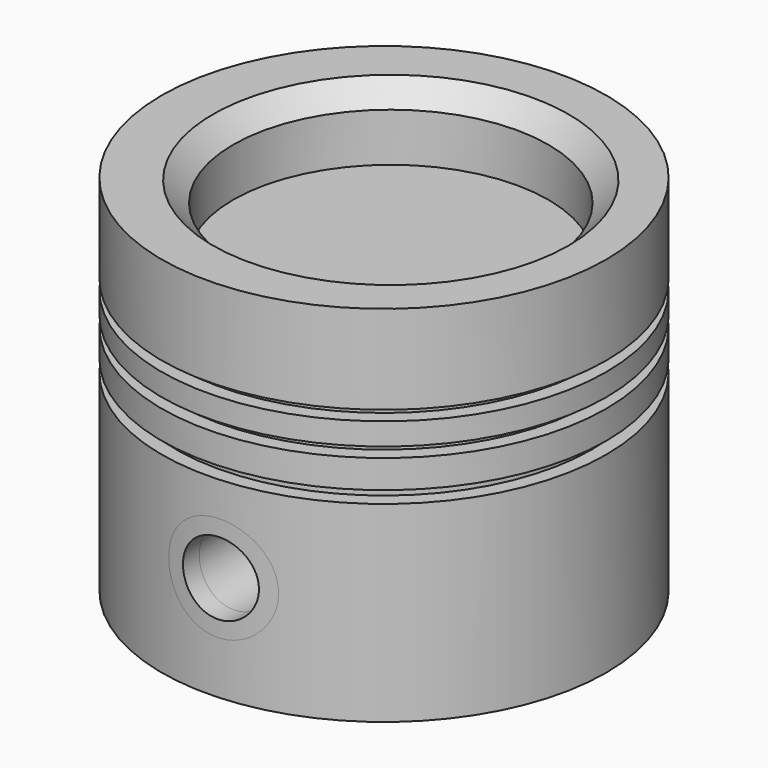
from build123d import *

# Parameters (mm, degrees)
F0_R           = 55
F1_DEPTH       = 47.5
F2_R           = 51.5
F3_DEPTH       = 3
F4_R           = 55
F5_DEPTH       = 7
F6_R           = 51.5
F7_DEPTH       = 2.5
F8_R           = 55
F9_DEPTH       = 5.5
F10_R          = 51.5
F11_DEPTH      = 2.5
F12_R          = 55
F12_R_2        = 39
F13_DEPTH      = 22
F14_R          = 50
F15_DEPTH      = 40
F16_R          = 43.5007627275
F17_DEPTH      = 5
F18_SIZE       = 5
F19_R          = 13
F19_R_2        = 9
F20_DEPTH      = 62
F20_DEPTH_BACK = 70.1
F21_R          = 9
F22_DEPTH      = 75.8
F22_DEPTH_BACK = 99.3
F24_DEPTH      = 40
F25_R          = 82.1696032424
F25_R_2        = 55
F26_DEPTH      = 32.2


with BuildPart() as f1:
    # F0 (on Top) → F1 (new body)
    with BuildSketch(Plane.XY):
        Circle(F0_R)
    extrude(amount=F1_DEPTH)

    # F2 (on face) → F3 (join)
    with BuildSketch(Plane.XY.offset(47.5)):
        Circle(F2_R)
    extrude(amount=F3_DEPTH)

    # F4 (on face) → F5 (join)
    with BuildSketch(Plane.XY.offset(50.5)):
        Circle(F4_R)
    extrude(amount=F5_DEPTH)

    # F6 (on face) → F7 (join)
    with BuildSketch(Plane.XY.offset(57.5)):
        Circle(F6_R)
    extrude(amount=F7_DEPTH)

    # F8 (on face) → F9 (join)
    with BuildSketch(Plane.XY.offset(60)):
        Circle(F8_R)
    extrude(amount=F9_DEPTH)

    # F10 (on face) → F11 (join)
    with BuildSketch(Plane.XY.offset(65.5)):
        Circle(F10_R)
    extrude(amount=F11_DEPTH)

    # F12 (on face) → F13 (join)
    with BuildSketch(Plane.XY.offset(68)):
        Circle(F12_R)
        with Locations((1.679461333, 0)):
            Circle(F12_R_2, mode=Mode.SUBTRACT)
    extrude(amount=F13_DEPTH)

    # F14 (on face) → F15 (cut)
    with BuildSketch(Plane(origin=(0, 0, 0), x_dir=(1, 0, 0), z_dir=(0, 0, -1))):
        Circle(F14_R)
    extrude(amount=-F15_DEPTH, mode=Mode.SUBTRACT)

    # F16 (on face) → F17 (join)
    with BuildSketch(Plane.XY.offset(68)):
        Circle(F16_R)
    extrude(amount=F17_DEPTH)

    # F18
    f18_edges = [f1.edges().sort_by_distance(p)[0] for p in [
        (-37.320539, 0, 90),
    ]]
    chamfer(f18_edges, length=F18_SIZE)

    # F19 (on Front) → F20 (join, two sides)
    with BuildSketch(Plane.XZ) as f20_sk:
        with Locations((3, 26)):
            Circle(F19_R)
        with Locations((3, 26)):
            Circle(F19_R_2, mode=Mode.SUBTRACT)
    extrude(amount=F20_DEPTH)
    extrude(f20_sk.sketch, amount=-F20_DEPTH_BACK)

    # F21 (on Front) → F22 (cut, two sides)
    with BuildSketch(Plane.XZ) as f22_sk:
        with Locations((3, 26)):
            Circle(F21_R)
    extrude(amount=-F22_DEPTH, mode=Mode.SUBTRACT)
    extrude(f22_sk.sketch, amount=F22_DEPTH_BACK, mode=Mode.SUBTRACT)

    # F23 (on Top) → F24 (cut)
    with BuildSketch(Plane.XY):
        with BuildLine():
            Line((-10, 25), (-10, 48.9897948557))
            ThreePointArc((-10, 48.9897948557), (-50, 0), (-10, -48.9897948557))
            Line((-10, -48.9897948557), (-10, -25))
            Line((-10, -25), (16, -25))
            Line((16, -25), (16, -47.3708771293))
            ThreePointArc((16, -47.3708771293), (50, 0), (16, 47.3708771293))
            Line((16, 47.3708771293), (16, 25))
            Line((16, 25), (-10, 25))
        make_face()
    extrude(amount=F24_DEPTH, mode=Mode.SUBTRACT)

    # F25 (on face) → F26 (cut)
    with BuildSketch(Plane(origin=(0, 0, 40), x_dir=(1, 0, 0), z_dir=(0, 0, -1))):
        with Locations((0, -2.1747821011)):
            Circle(F25_R)
        Circle(F25_R_2, mode=Mode.SUBTRACT)
    extrude(amount=F26_DEPTH, mode=Mode.SUBTRACT)


solid = f1.part
